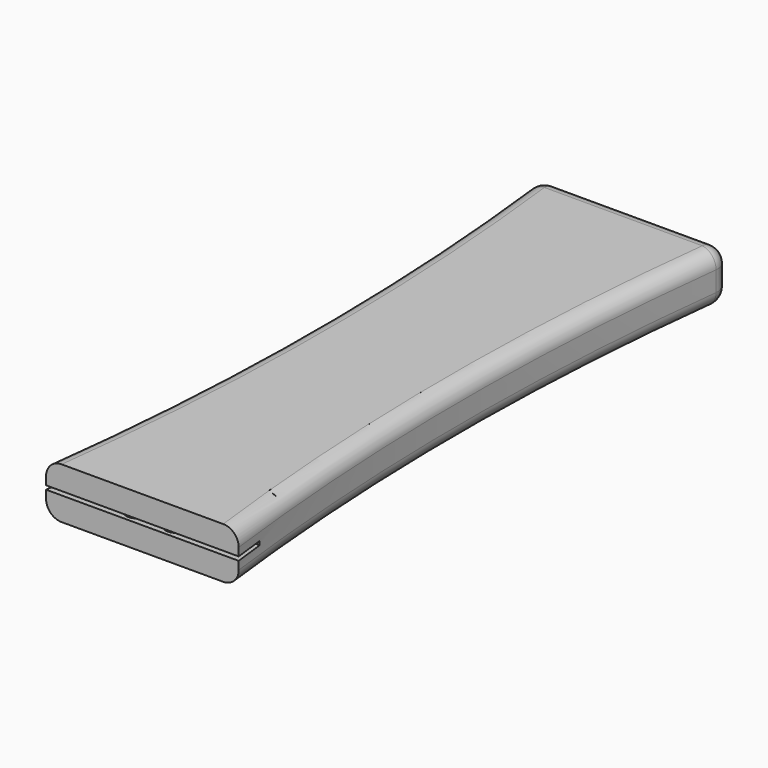
from build123d import *

# Parameters (mm, degrees)
F1_DEPTH = 8.382
F2_W     = 31.75
F2_H     = 0.635
F3_DEPTH = 5.08
F5_DEPTH = 8.382
F6_R     = 2.54
F7_R     = 2.54


with BuildPart() as f1:
    # F0 (on Top) → F1 (new body)
    with BuildSketch(Plane.XY):
        with BuildLine():
            Line((31.75, 101.6), (0, 101.6))
            ThreePointArc((0, 101.6), (3.1875, 50.8), (0, 0))
            Line((0, 0), (10.9474, 0))
            Line((10.9474, 0), (14.4018, 0))
            Line((14.4018, 0), (17.3482, 0))
            Line((17.3482, 0), (20.8026, 0))
            Line((20.8026, 0), (31.75, 0))
            ThreePointArc((31.75, 0), (28.5875, 50.8), (31.75, 101.6))
        make_face()
    extrude(amount=F1_DEPTH)

    # F2 (on face) → F3 (cut)
    with BuildSketch(Plane.XZ):
        with Locations((15.875, 4.191)):
            Rectangle(F2_W, F2_H)
    extrude(amount=-F3_DEPTH, mode=Mode.SUBTRACT)

    # F4 (on face) → F5 (join)
    with BuildSketch(Plane.XY.offset(8.382)):
        with BuildLine():
            Line((14.82684, 5.08), (11.32164, 5.08))
            Line((11.32164, 5.08), (11.32164, 2.413))
            ThreePointArc((11.32164, 2.413), (13.07424, 0.6604), (14.82684, 2.413))
            Line((14.82684, 2.413), (14.82684, 5.08))
        make_face()
        with BuildLine():
            Line((21.27844, 5.08), (17.77324, 5.08))
            Line((17.77324, 5.08), (17.77324, 2.413))
            ThreePointArc((17.77324, 2.413), (19.52584, 0.6604), (21.27844, 2.413))
            Line((21.27844, 2.413), (21.27844, 5.08))
        make_face()
    extrude(amount=-F5_DEPTH)

    # F6
    f6_edges = [f1.edges().sort_by_distance(p)[0] for p in [
        (0, 101.6, 4.191),
        (31.75, 101.6, 4.191),
    ]]
    fillet(f6_edges, radius=F6_R)

    # F7
    f7_edges = [f1.edges().sort_by_distance(p)[0] for p in [
        (28.589993, 49.370859, 0),
        (28.589993, 49.370859, 8.382),
    ]]
    fillet(f7_edges, radius=F7_R)


solid = f1.part
